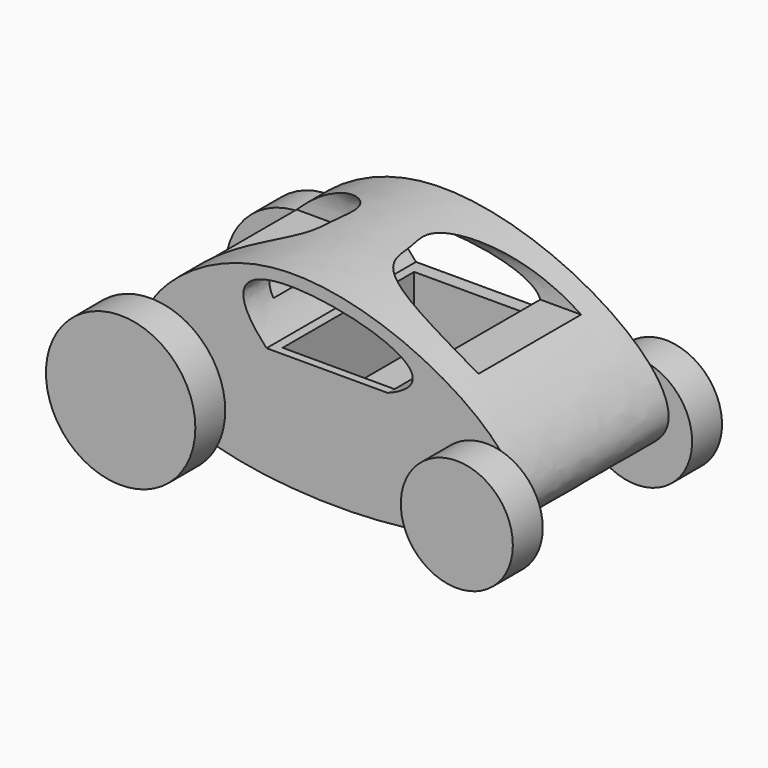
from build123d import *

# Parameters (mm, degrees)
F1_DEPTH  = 25
F2_R      = 10
F2_R_2    = 7.5
F3_DEPTH  = 5
F4_R      = 10
F4_R_2    = 7.5
F5_DEPTH  = 5
F7_DEPTH  = 25
F9_DEPTH  = 50
F10_W     = 15
F10_H     = 22
F11_DEPTH = 11.7


with BuildPart() as f1:
    # F0 (on Front) → F1 (new body)
    with BuildSketch(Plane.XZ):
        with BuildLine():
            add(Edge.make_bspline(
                [(0, 0), (7.7729099033, -8.9017739988), (76.5515985722, -7.8056866995), (14.944270392, 31.3527554007), (-5.5602967015, 6.3678217319), (0, 0)],
                knots=[0, 0, 0, 0, 0.3856996923, 0.7240924244, 1, 1, 1, 1], degree=3))
        make_face()
    extrude(amount=F1_DEPTH)

    # F2 (on face) → F3 (join)
    with BuildSketch(Plane(origin=(0, 0, 0), x_dir=(-1, 0, 0), z_dir=(0, 1, 0))):
        Circle(F2_R)
        with Locations((-45, 0)):
            Circle(F2_R_2)
    extrude(amount=F3_DEPTH)

    # F4 (on face) → F5 (join)
    with BuildSketch(Plane.XZ.offset(25)):
        Circle(F4_R)
        with Locations((45, 0)):
            Circle(F4_R_2)
    extrude(amount=F5_DEPTH)

    # F6 (on face) → F7 (cut)
    with BuildSketch(Plane(origin=(0, 0, 0), x_dir=(-1, 0, 0), z_dir=(0, 1, 0))):
        with BuildLine():
            add(Edge.make_bspline(
                [(-15.5320151279, 9.157834348), (-8.4285214161, 16.6821450751), (-21.5056969383, 19.7605291958), (-40.3879305064, 12.5258969863), (-31.7447283103, 9.157834348)],
                knots=[0, 0, 0, 0, 0.4795568401, 1, 1, 1, 1], degree=3))
            Line((-31.7447283103, 9.157834348), (-15.5320151279, 9.157834348))
        make_face()
    extrude(amount=-F7_DEPTH, mode=Mode.SUBTRACT)

    # F8 (on Right) → F9 (cut)
    with BuildSketch(Plane.YZ):
        with BuildLine():
            add(Edge.make_bspline(
                [(-3.5305038338, 12.4840607559), (-3.0124981012, 19.2546628614), (-11.8276355966, 18.1731187054), (-21.0525599776, 18.8733435584), (-20.6982006042, 12.4840607559)],
                knots=[0, 0, 0, 0, 0.4945566661, 1, 1, 1, 1], degree=3))
            Line((-20.6982006042, 12.4840607559), (-3.5305038338, 12.4840607559))
        make_face()
    extrude(amount=F9_DEPTH, mode=Mode.SUBTRACT)

    # F10 (on Top) → F11 (cut)
    with BuildSketch(Plane.XY):
        with Locations((24.2926669866, -12.8819355741)):
            Rectangle(F10_W, F10_H)
    extrude(amount=F11_DEPTH, mode=Mode.SUBTRACT)


solid = f1.part
